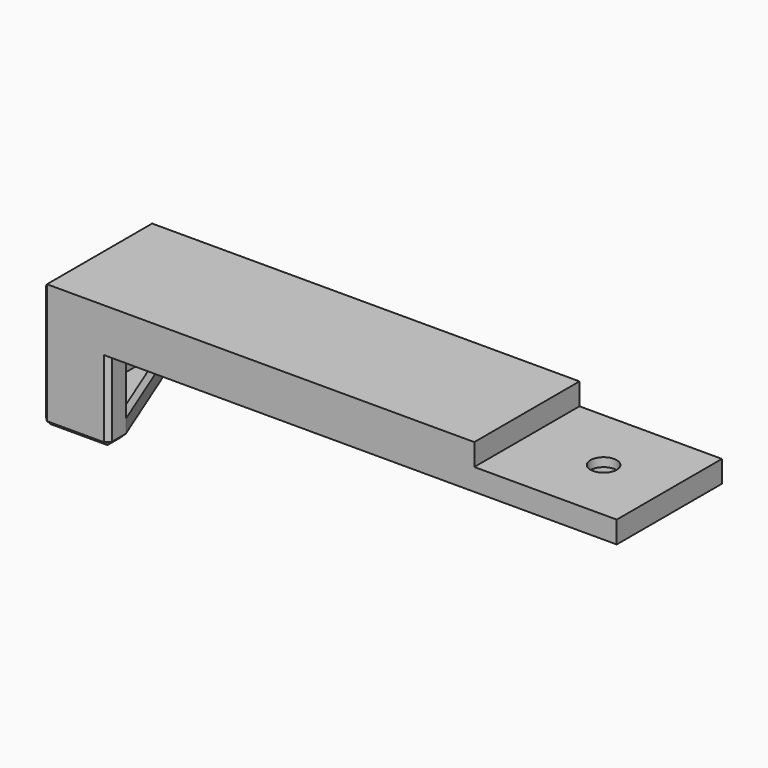
from build123d import *

# Parameters (mm, degrees)
SKETCH022_W      = 131
SKETCH022_H      = 30
PAD007_DEPTH     = 10
SKETCH021_W      = 15
SKETCH021_H      = 30
PAD008_DEPTH     = 18.5
SKETCH023_W      = 25
SKETCH023_H      = 13.5
POCKET014_DEPTH  = 10
SKETCH020_R      = 3
POCKET015_DEPTH  = 10.001
SKETCH024_W      = 32.5
SKETCH024_H      = 30
POCKET016_DEPTH  = 5
SKETCH037_R      = 5
POCKET025_DEPTH  = 3
CHAMFER004_SIZE2 = 25
CHAMFER004_SIZE  = 10
CHAMFER005_SIZE  = 1


with BuildPart() as part:
    # Sketch022 → Pad007 (new body)
    with BuildSketch(Plane.XY):
        Rectangle(SKETCH022_W, SKETCH022_H)
    extrude(amount=PAD007_DEPTH)

    # Sketch021 (on Face5 of Pad007) → Pad008 (join)
    with BuildSketch(Plane(origin=(0, 0, 0), x_dir=(1, 0, 0), z_dir=(0, 0, -1))):
        with Locations((-58, 0)):
            Rectangle(SKETCH021_W, SKETCH021_H)
    extrude(amount=PAD008_DEPTH)

    # Sketch023 (on Face9 of Pad008) → Pocket014 (cut)
    with BuildSketch(Plane.YZ.offset(-50.5)):
        with Locations((2.5, -6.75)):
            Rectangle(SKETCH023_W, SKETCH023_H)
    extrude(amount=-POCKET014_DEPTH, mode=Mode.SUBTRACT)

    # Sketch020 (on Face5 of Pocket014) → Pocket015 (cut, through all)
    with BuildSketch(Plane(origin=(0, 0, 0), x_dir=(1, 0, 0), z_dir=(0, 0, -1))):
        with Locations((50.5, 0)):
            Circle(SKETCH020_R)
    extrude(amount=-POCKET015_DEPTH, mode=Mode.SUBTRACT)

    # Sketch024 → Pocket016 (cut)
    with BuildSketch(Plane.XY.offset(10)):
        with Locations((49.25, 0)):
            Rectangle(SKETCH024_W, SKETCH024_H)
    extrude(amount=-POCKET016_DEPTH, mode=Mode.SUBTRACT)

    # Sketch037 (on Face4 of Pocket016) → Pocket025 (cut)
    with BuildSketch(Plane(origin=(0, 0, 0), x_dir=(1, 0, 0), z_dir=(0, 0, -1))):
        with Locations((50.5, 0)):
            Circle(SKETCH037_R)
    extrude(amount=-POCKET025_DEPTH, mode=Mode.SUBTRACT)

    # Chamfer004
    chamfer004_edges = [part.edges().sort_by_distance(p)[0] for p in [
        (-50.5, 15, -16),
    ]]
    chamfer004_side = part.faces().sort_by_distance((-55.5, 15, -13.73817))[0]
    chamfer(chamfer004_edges, length=CHAMFER004_SIZE, length2=CHAMFER004_SIZE2, reference=chamfer004_side)

    # Chamfer005
    chamfer005_edges = [part.edges().sort_by_distance(p)[0] for p in [
        (-55.5, 2.5, -18.5),
        (-55.5, 2.5, -13.5),
        (-50.5, -12.5, -18.5),
        (-58, -15, -18.5),
        (-50.5, -15, -9.25),
        (-65.5, 0, -18.5),
        (-65.5, 15, -9.25),
        (-65.5, 15, 5),
        (-65.5, 0, 10),
        (-65.5, -15, 5),
        (-65.5, -15, -9.25),
    ]]
    chamfer(chamfer005_edges, length=CHAMFER005_SIZE)


solid = part.part
